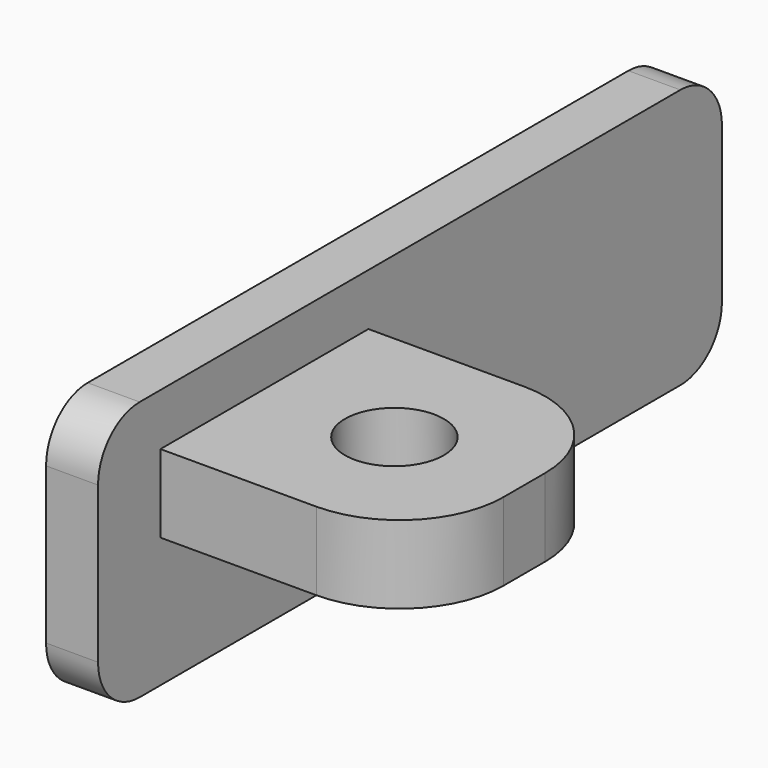
from build123d import *

# Parameters (mm, degrees)
CYLINDER_R     = 1.9
CYLINDER_DEPTH = 10
BOX_W          = 10
BOX_H          = 10
BOX_DEPTH      = 3
FILLET_R       = 4
BOX001_W       = 2
BOX001_H       = 30
BOX001_DEPTH   = 10
FILLET001_R    = 2


with BuildPart() as hole:
    # Cylinder → Cylinder (new body)
    with BuildSketch(Plane.XY):
        Circle(CYLINDER_R)
    extrude(amount=CYLINDER_DEPTH)


with BuildPart() as bottom_fillet:
    # Box → Box (new body)
    with BuildSketch(Plane(origin=(-5, -5, 0), x_dir=(1, 0, 0), z_dir=(0, 0, 1))):
        with Locations((5, 5)):
            Rectangle(BOX_W, BOX_H)
    extrude(amount=BOX_DEPTH)

    # Fillet
    fillet_edges = [bottom_fillet.edges().sort_by_distance(p)[0] for p in [
        (5, -5, 1.5),
        (5, 5, 1.5),
    ]]
    fillet(fillet_edges, radius=FILLET_R)


with BuildPart() as lock_cut:
    # Box001 → Box001 (new body)
    with BuildSketch(Plane(origin=(-7, -8, -5), x_dir=(1, 0, 0), z_dir=(0, 0, 1))):
        with Locations((1, 15)):
            Rectangle(BOX001_W, BOX001_H)
    extrude(amount=BOX001_DEPTH)

    # Fillet001
    fillet001_edges = [lock_cut.edges().sort_by_distance(p)[0] for p in [
        (-6, -8, -5),
        (-6, -8, 5),
        (-6, 22, -5),
        (-6, 22, 5),
    ]]
    fillet(fillet001_edges, radius=FILLET001_R)

    # Fusion: union bottom fillet
    add(bottom_fillet.part)

    # Cut: cut hole
    add(hole.part, mode=Mode.SUBTRACT)


solid = lock_cut.part
